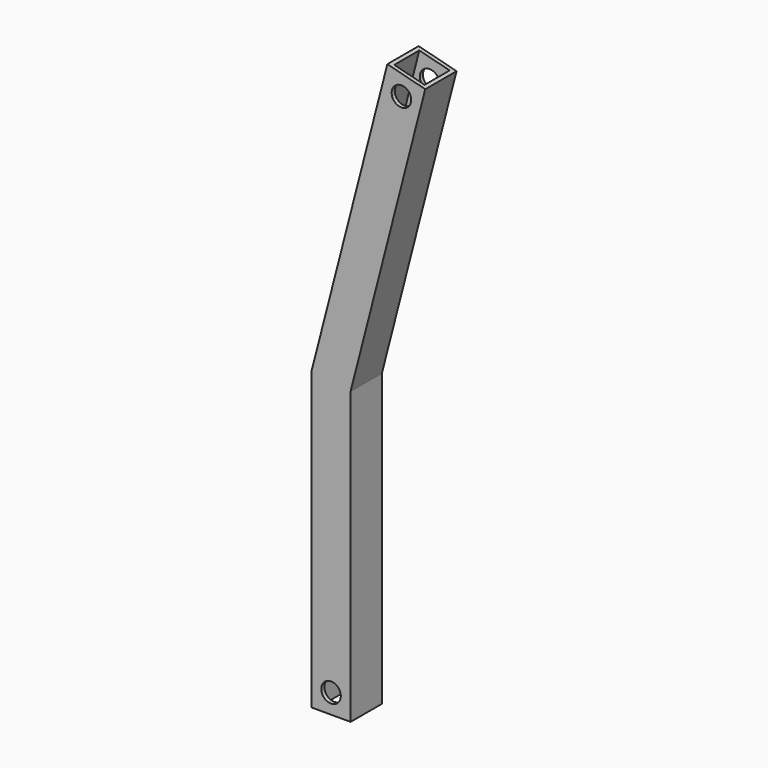
from build123d import *

# Parameters (mm, degrees)
PAD_DEPTH    = 10
THICKNESS_T  = -1
SKETCH001_R  = 2.5
POCKET_DEPTH = 10.001


with BuildPart() as part:
    # Sketch → Pad (new body)
    with BuildSketch(Plane.XZ):
        Polygon((-5, -5), (-5, 70.632568), (14.402741, 146.08767), (24.08767, 143.597259), (5, 69.367432), (5, -5), align=None)
    extrude(amount=PAD_DEPTH)

    # Thickness
    thickness_openings = [part.faces().sort_by_distance(p)[0] for p in [
        (19.245205, -5, 144.842465),
        (0, -5, -5),
    ]]
    offset(amount=THICKNESS_T, openings=thickness_openings)

    # Sketch001 (on Face6 of Thickness) → Pocket (cut, through all)
    with BuildSketch(Plane.XZ.offset(10)):
        with Locations((18, 140)):
            Circle(SKETCH001_R)
        Circle(SKETCH001_R)
    extrude(amount=-POCKET_DEPTH, mode=Mode.SUBTRACT)


solid = part.part
